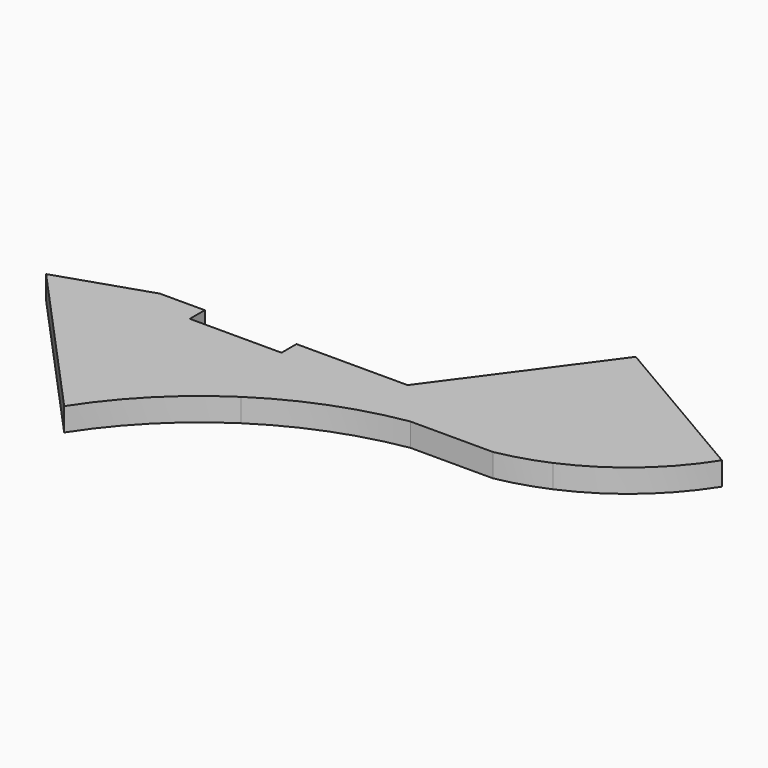
from build123d import *

# Parameters (mm, degrees)
F1_DEPTH = 3


with BuildPart() as f1:
    # F0 (on Top) → F1 (new body)
    with BuildSketch(Plane.XY):
        with BuildLine():
            Line((11.85, 0), (0, 0))
            Line((0, 0), (0, 2.42))
            Line((0, 2.42), (-5.8, 2.42))
            Line((-5.8, 2.42), (-17.43, -1.42))
            Line((-17.43, -1.42), (2.02, -22.81))
            ThreePointArc((2.02, -22.81), (7.675343, -15.79029), (14.664004, -10.096622))
            ThreePointArc((14.664004, -10.096622), (22.681859, -5.976765), (31.38, -3.61))
            Line((31.38, -3.61), (46.305, 2.895))
            Line((46.305, 2.895), (61.23, 9.4))
            Line((61.23, 9.4), (40.32, 21.63))
            Line((40.32, 21.63), (26.199908, 2.42))
            Line((26.199908, 2.42), (25.09, 0.91))
            Line((25.09, 0.91), (25.09, 2.42))
            Line((25.09, 2.42), (11.85, 2.42))
            Line((11.85, 2.42), (11.85, 0))
        make_face()
        with BuildLine():
            ThreePointArc((48.302729, -1.688566), (55.598528, 2.885564), (61.23, 9.4))
            Line((61.23, 9.4), (46.305, 2.895))
            Line((46.305, 2.895), (48.302729, -1.688566))
        make_face()
        with BuildLine():
            Line((46.305, 2.895), (31.38, -3.61))
            Line((31.38, -3.61), (42.04616, -3.61))
            ThreePointArc((42.04616, -3.61), (45.22881, -2.82631), (48.302729, -1.688566))
            Line((48.302729, -1.688566), (46.305, 2.895))
        make_face()
        Polygon((26.199908, 2.42), (25.09, 2.42), (25.09, 0.91), align=None)
    extrude(amount=F1_DEPTH)


solid = f1.part
